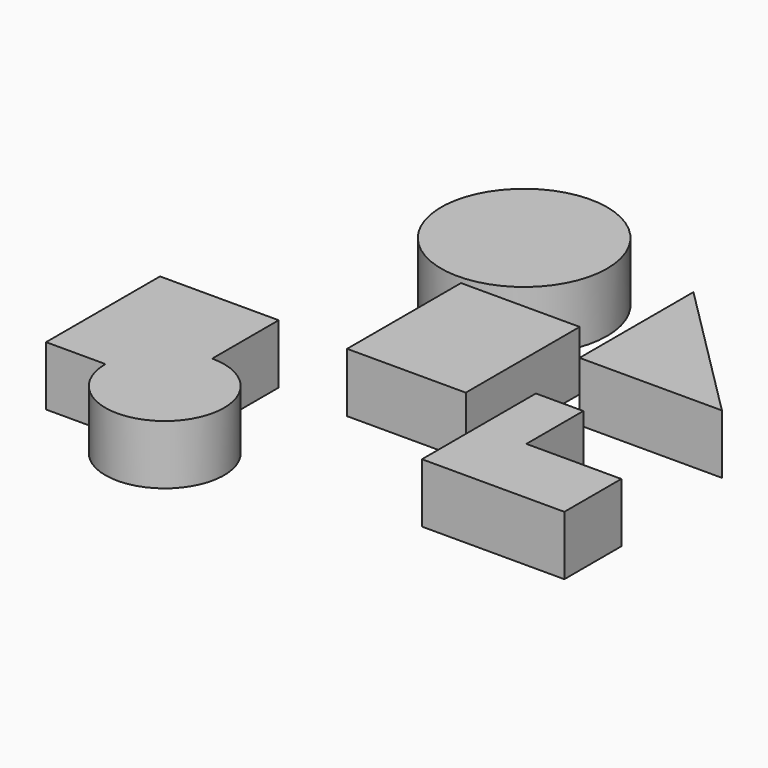
from build123d import *

# Parameters (mm, degrees)
F1_R     = 35
F2_DEPTH = 25
F0_W     = 50
F0_H     = 60
F3_DEPTH = 25
F4_DEPTH = 25


with BuildPart() as f2:
    # F1 (on Top) → F2 (new body)
    with BuildSketch(Plane.XY):
        with Locations((-48.574004, 67.866504)):
            Circle(F1_R)
    extrude(amount=F2_DEPTH)

    # F1 (on Top) → F4 (join)
    with BuildSketch(Plane.XY):
        Polygon((79.061727, 12.502253), (19.061727, 72.502253), (19.061727, 12.502253), align=None)
        with Locations((-48.574004, 67.866504)):
            Circle(F1_R)
        Polygon((83.699414, -46.288603), (43.699414, -46.288603), (43.699414, -16.288603), (23.699414, -16.288603), (23.699414, -46.288603), (23.699414, -76.288603), (43.699414, -76.288603), (83.699414, -76.288603), align=None)
        with BuildLine():
            Line((-74.991417, -28.399708), (-124.991417, -28.399708))
            Line((-124.991417, -28.399708), (-124.991417, -88.399708))
            Line((-124.991417, -88.399708), (-99.991417, -88.399708))
            ThreePointArc((-99.991417, -88.399708), (-57.313747, -106.077378), (-74.991417, -63.399708))
            Line((-74.991417, -63.399708), (-74.991417, -28.399708))
        make_face()
    extrude(amount=F4_DEPTH)


with BuildPart() as f3:
    # F0 (on Top) → F3 (new body)
    with BuildSketch(Plane.XY):
        with Locations((-19.684223, -0.234846)):
            Rectangle(F0_W, F0_H)
    extrude(amount=F3_DEPTH)


solid = Compound([f2.part, f3.part])
